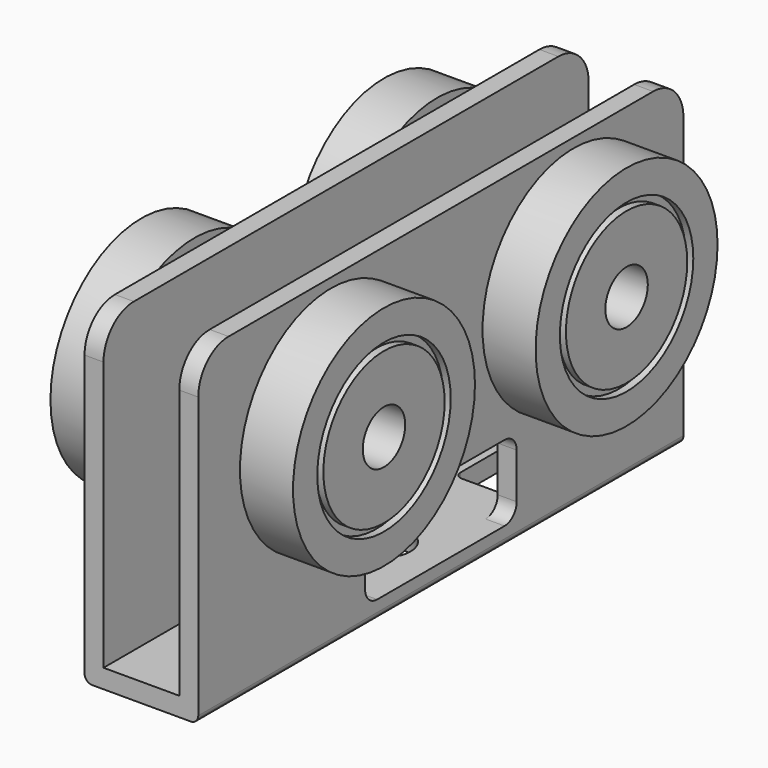
from build123d import *

# Parameters (mm, degrees)
F1_DEPTH  = 80
F2_R      = 4
F3_DEPTH  = 8.5
F4_DEPTH  = 23.5
F5_R      = 15
F6_DEPTH  = 7
F7_R      = 15
F8_DEPTH  = 7
F9_R      = 5
F10_R     = 3.5
F11_DEPTH = 25
F13_DEPTH = 23.501
F15_DEPTH = 3
F16_R     = 11
F16_R_2   = 10
F17_DEPTH = 1
F18_R     = 11
F18_R_2   = 10
F19_DEPTH = 1
F20_R     = 3.5
F21_DEPTH = 32.001


with BuildPart() as f1:
    # F0 (on Front) → F1 (new body)
    with BuildSketch(Plane.XZ):
        with BuildLine():
            Line((0, 43), (0, 1))
            ThreePointArc((0, 1), (0.292893, 0.292893), (1, 0))
            Line((1, 0), (14, 0))
            ThreePointArc((14, 0), (14.707107, 0.292893), (15, 1))
            Line((15, 1), (15, 43))
            Line((15, 43), (12.5, 43))
            Line((12.5, 43), (12.5, 2.5))
            Line((12.5, 2.5), (2.5, 2.5))
            Line((2.5, 2.5), (2.5, 43))
            Line((2.5, 43), (0, 43))
        make_face()
    extrude(amount=F1_DEPTH)

    # F2 (on face) → F3 (join)
    with BuildSketch(Plane.YZ.offset(15)):
        with Locations((-60, 28)):
            Circle(F2_R)
        with Locations((-20, 28)):
            Circle(F2_R)
    extrude(amount=F3_DEPTH)

    # F2 (on face) → F4 (join)
    with BuildSketch(Plane.YZ.offset(15)):
        with Locations((-60, 28)):
            Circle(F2_R)
        with Locations((-20, 28)):
            Circle(F2_R)
    extrude(amount=-F4_DEPTH)

    # F5 (on face) → F6 (join)
    with BuildSketch(Plane.YZ.offset(23.5)):
        with Locations((-20, 28)):
            Circle(F5_R)
        with Locations((-60, 28)):
            Circle(F5_R)
    extrude(amount=-F6_DEPTH)

    # F7 (on face) → F8 (join)
    with BuildSketch(Plane(origin=(-8.5, 0, 0), x_dir=(0, -1, 0), z_dir=(-1, 0, 0))):
        with Locations((20, 28)):
            Circle(F7_R)
        with Locations((60, 28)):
            Circle(F7_R)
    extrude(amount=-F8_DEPTH)

    # F9
    f9_edges = [f1.edges().sort_by_distance(p)[0] for p in [
        (1.25, -80, 43),
        (13.75, -80, 43),
        (1.25, 0, 43),
        (13.75, 0, 43),
    ]]
    fillet(f9_edges, radius=F9_R)

    # F10 (on face) → F11 (cut)
    with BuildSketch(Plane(origin=(0, 0, 0), x_dir=(1, 0, 0), z_dir=(0, 0, -1))):
        with Locations((7.5, 40)):
            Circle(F10_R)
    extrude(amount=-F11_DEPTH, mode=Mode.SUBTRACT)

    # F12 (on face) → F13 (cut, through all)
    with BuildSketch(Plane.YZ.offset(15)):
        with BuildLine():
            ThreePointArc((-29.5, 2.5), (-28.085786, 3.085786), (-27.5, 4.5))
            Line((-27.5, 4.5), (-27.5, 10.5))
            ThreePointArc((-27.5, 10.5), (-28.085786, 11.914214), (-29.5, 12.5))
            Line((-29.5, 12.5), (-50.5, 12.5))
            ThreePointArc((-50.5, 12.5), (-51.914214, 11.914214), (-52.5, 10.5))
            Line((-52.5, 10.5), (-52.5, 4.5))
            ThreePointArc((-52.5, 4.5), (-51.914214, 3.085786), (-50.5, 2.5))
            Line((-50.5, 2.5), (-29.5, 2.5))
        make_face()
    extrude(amount=-F13_DEPTH, mode=Mode.SUBTRACT)

    # F14 (on face) → F15 (cut)
    with BuildSketch(Plane(origin=(0, 0, 0), x_dir=(1, 0, 0), z_dir=(0, 0, -1))):
        with BuildLine():
            Line((10, 70), (7.5, 70))
            Line((7.5, 70), (5, 70))
            ThreePointArc((5, 70), (4.292893, 69.707107), (4, 69))
            Line((4, 69), (4, 57))
            ThreePointArc((4, 57), (4.292893, 56.292893), (5, 56))
            Line((5, 56), (10, 56))
            ThreePointArc((10, 56), (10.707107, 56.292893), (11, 57))
            Line((11, 57), (11, 69))
            ThreePointArc((11, 69), (10.707107, 69.707107), (10, 70))
        make_face()
        with BuildLine():
            ThreePointArc((10, 10), (10.707107, 10.292893), (11, 11))
            Line((11, 11), (11, 23))
            ThreePointArc((11, 23), (10.707107, 23.707107), (10, 24))
            Line((10, 24), (5, 24))
            ThreePointArc((5, 24), (4.292893, 23.707107), (4, 23))
            Line((4, 23), (4, 11))
            ThreePointArc((4, 11), (4.292893, 10.292893), (5, 10))
            Line((5, 10), (7.5, 10))
            Line((7.5, 10), (10, 10))
        make_face()
    extrude(amount=-F15_DEPTH, mode=Mode.SUBTRACT)

    # F16 (on face) → F17 (cut)
    with BuildSketch(Plane(origin=(-8.5, 0, 0), x_dir=(0, -1, 0), z_dir=(-1, 0, 0))):
        with Locations((20, 28)):
            Circle(F16_R)
        with Locations((20, 28)):
            Circle(F16_R_2, mode=Mode.SUBTRACT)
        with Locations((60, 28)):
            Circle(F16_R)
        with Locations((60, 28)):
            Circle(F16_R_2, mode=Mode.SUBTRACT)
    extrude(amount=-F17_DEPTH, mode=Mode.SUBTRACT)

    # F18 (on face) → F19 (cut)
    with BuildSketch(Plane.YZ.offset(23.5)):
        with Locations((-60, 28)):
            Circle(F18_R)
        with Locations((-60, 28)):
            Circle(F18_R_2, mode=Mode.SUBTRACT)
        with Locations((-20, 28)):
            Circle(F18_R)
        with Locations((-20, 28)):
            Circle(F18_R_2, mode=Mode.SUBTRACT)
    extrude(amount=-F19_DEPTH, mode=Mode.SUBTRACT)

    # F20 (on face) → F21 (cut, through all)
    with BuildSketch(Plane.YZ.offset(23.5)):
        with Locations((-20, 28)):
            Circle(F20_R)
        with Locations((-60, 28)):
            Circle(F20_R)
    extrude(amount=-F21_DEPTH, mode=Mode.SUBTRACT)


solid = f1.part
